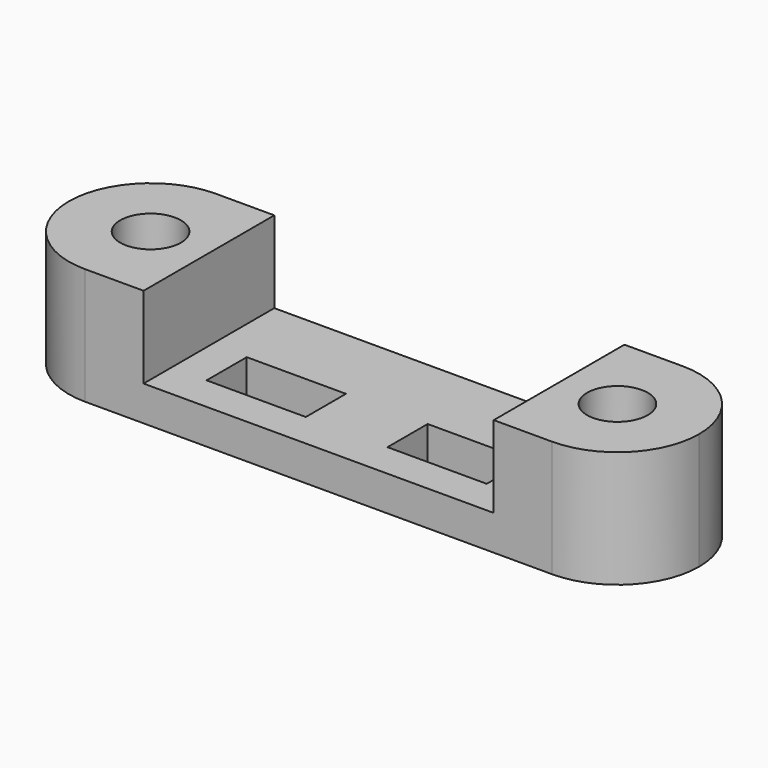
from build123d import *

# Parameters (mm, degrees)
F0_R     = 2.6
F1_DEPTH = 10
F2_W     = 30
F2_H     = 14
F3_DEPTH = 7
F4_W     = 8.5
F4_H     = 4.3
F5_DEPTH = 25
F6_R     = 2.6
F7_DEPTH = 4


with BuildPart() as f1:
    # F0 (on Top) → F1 (new body)
    with BuildSketch(Plane.XY):
        with BuildLine():
            ThreePointArc((27, 0), (24.949747, 4.949747), (20, 7))
            Line((20, 7), (-20, 7))
            ThreePointArc((-20, 7), (-24.949747, 4.949747), (-27, 0))
            ThreePointArc((-27, 0), (-24.949747, -4.949747), (-20, -7))
            Line((-20, -7), (20, -7))
            ThreePointArc((20, -7), (24.949747, -4.949747), (27, 0))
        make_face()
        with Locations((-20, 0)):
            Circle(F0_R, mode=Mode.SUBTRACT)
        with Locations((20, 0)):
            Circle(F0_R, mode=Mode.SUBTRACT)
    extrude(amount=F1_DEPTH)

    # F2 (on face) → F3 (cut)
    with BuildSketch(Plane.XY.offset(10)):
        Rectangle(F2_W, F2_H)
    extrude(amount=-F3_DEPTH, mode=Mode.SUBTRACT)

    # F4 (on face) → F5 (cut)
    with BuildSketch(Plane.XY.offset(3)):
        with Locations((-7.75, -1.85)):
            Rectangle(F4_W, F4_H)
        with Locations((7.75, -1.85)):
            Rectangle(F4_W, F4_H)
    extrude(amount=-F5_DEPTH, mode=Mode.SUBTRACT)

    # F6 (on face) → F7 (cut)
    with BuildSketch(Plane(origin=(0, 0, 0), x_dir=(1, 0, 0), z_dir=(0, 0, -1))):
        Polygon((-15.9, -2.367136), (-15.9, 2.367136), (-20, 4.734272), (-24.1, 2.367136), (-24.1, -2.367136), (-20, -4.734272), align=None)
        with Locations((-20, 0)):
            Circle(F6_R, mode=Mode.SUBTRACT)
        Polygon((15.9, 2.367136), (15.9, -2.367136), (20, -4.734272), (24.1, -2.367136), (24.1, 2.367136), (20, 4.734272), align=None)
        with Locations((20, 0)):
            Circle(F6_R, mode=Mode.SUBTRACT)
    extrude(amount=-F7_DEPTH, mode=Mode.SUBTRACT)


solid = f1.part
